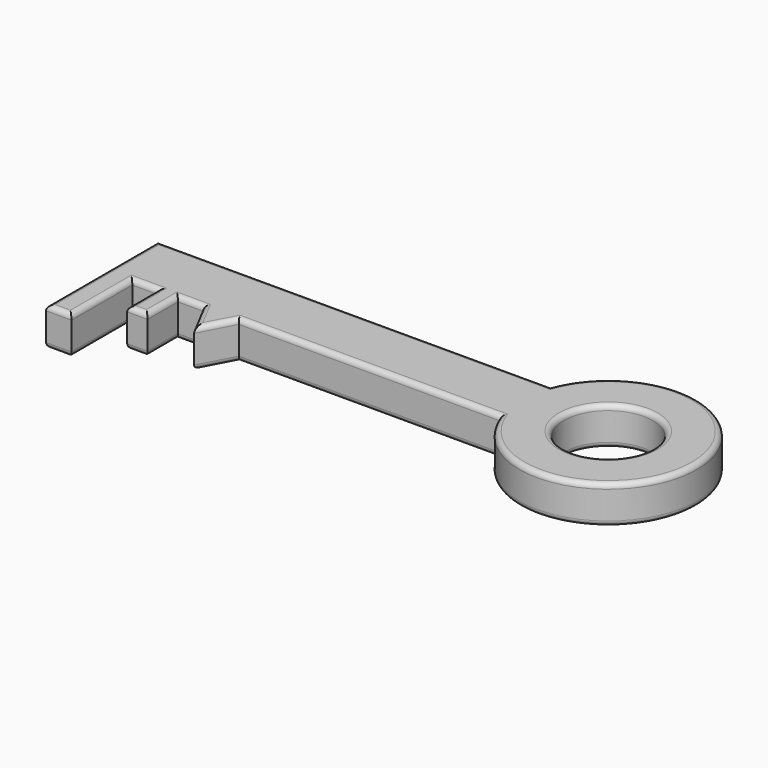
from build123d import *

# Parameters (mm, degrees)
F0_R     = 17.5
F1_DEPTH = 15
F2_R     = 2
F3_R     = 2


with BuildPart() as f1:
    # F0 (on Top) → F1 (new body)
    with BuildSketch(Plane.XY):
        with BuildLine():
            ThreePointArc((10.99441, -1.51029), (78.686152, 10.98971), (10.99441, 23.48971))
            Line((10.99441, 23.48971), (-144.00559, 23.48971))
            Line((-144.00559, 23.48971), (-144.00559, -1.51029))
            Line((-144.00559, -1.51029), (-144.00559, -31.51029))
            Line((-144.00559, -31.51029), (-134.00559, -31.51029))
            Line((-134.00559, -31.51029), (-134.00559, -1.51029))
            Line((-134.00559, -1.51029), (-124.00559, -1.51029))
            Line((-124.00559, -1.51029), (-124.00559, -16.51029))
            Line((-124.00559, -16.51029), (-116.00559, -16.51029))
            Line((-116.00559, -16.51029), (-116.00559, -1.51029))
            Line((-116.00559, -1.51029), (-106.00559, -1.51029))
            Line((-106.00559, -1.51029), (-99.00559, -14.776789))
            Line((-99.00559, -14.776789), (-92.00559, -1.51029))
            Line((-92.00559, -1.51029), (10.99441, -1.51029))
        make_face()
        with Locations((43.686152, 10.98971)):
            Circle(F0_R, mode=Mode.SUBTRACT)
    extrude(amount=F1_DEPTH)

    # F2
    f2_edges = [f1.edges().sort_by_distance(p)[0] for p in [
        (78.686152, 10.98971, 0),
        (-66.50559, 23.48971, 0),
        (-40.50559, -1.51029, 0),
        (-95.50559, -8.143539, 0),
        (-102.50559, -8.143539, 0),
        (-116.00559, -9.01029, 0),
        (-124.00559, -9.01029, 0),
        (-134.00559, -16.51029, 0),
        (-144.00559, -4.01029, 0),
        (26.186152, 10.98971, 0),
        (-111.00559, -1.51029, 0),
        (-129.00559, -1.51029, 0),
        (-120.00559, -16.51029, 0),
        (-139.00559, -31.51029, 0),
    ]]
    fillet(f2_edges, radius=F2_R)

    # F3
    f3_edges = [f1.edges().sort_by_distance(p)[0] for p in [
        (-66.50559, 23.48971, 15),
        (-144.00559, -4.01029, 15),
        (-139.00559, -31.51029, 15),
        (-134.00559, -16.51029, 15),
        (-129.00559, -1.51029, 15),
        (-124.00559, -9.01029, 15),
        (-120.00559, -16.51029, 15),
        (-116.00559, -9.01029, 15),
        (-111.00559, -1.51029, 15),
        (-102.50559, -8.143539, 15),
        (-95.50559, -8.143539, 15),
        (-40.50559, -1.51029, 15),
        (78.686152, 10.98971, 15),
        (26.186152, 10.98971, 15),
    ]]
    fillet(f3_edges, radius=F3_R)


solid = f1.part
